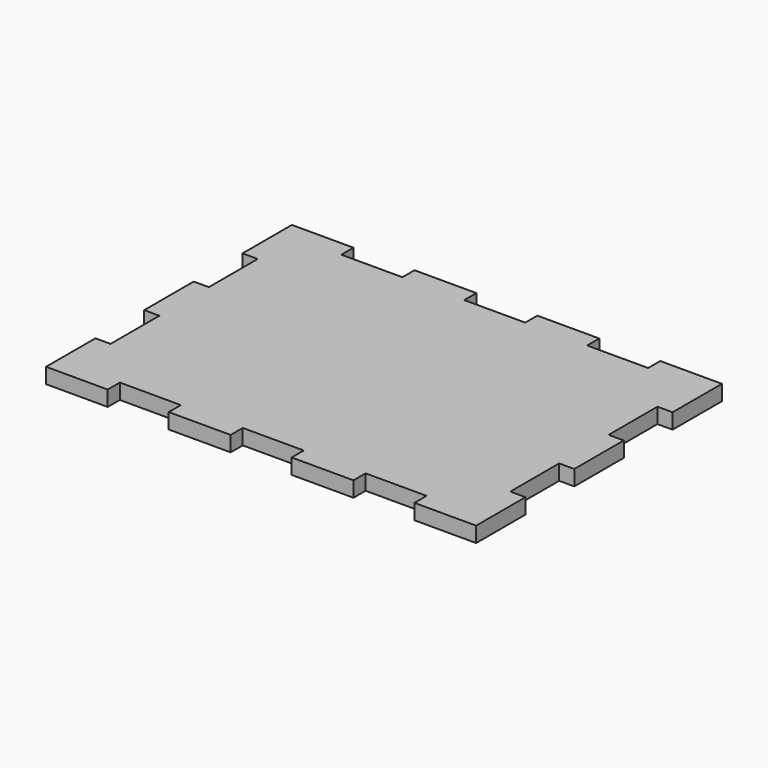
from build123d import *

# Parameters (mm, degrees)
F1_DEPTH = 6.35


with BuildPart() as f1:
    # F0 (on Top) → F1 (new body)
    with BuildSketch(Plane.XY):
        Polygon((0, 25.4889), (0, 0), (25.4889, 0), (25.4889, 6.2611), (50.7111, 6.2611), (50.7111, 0), (76.2889, 0), (76.2889, 6.2611), (101.5111, 6.2611), (101.5111, 0), (127.0889, 0), (127.0889, 6.2611), (152.3111, 6.2611), (152.3111, 0), (177.8, 0), (177.8, 25.4889), (171.5389, 25.4889), (171.5389, 50.7111), (177.8, 50.7111), (177.8, 76.2889), (171.5389, 76.2889), (171.5389, 101.5111), (177.8, 101.5111), (177.8, 127), (152.3111, 127), (152.3111, 120.7389), (127.0889, 120.7389), (127.0889, 127), (101.5111, 127), (101.5111, 120.7389), (76.2889, 120.7389), (76.2889, 127), (50.7111, 127), (50.7111, 120.7389), (25.4889, 120.7389), (25.4889, 127), (0, 127), (0, 101.5111), (6.2611, 101.5111), (6.2611, 76.2889), (0, 76.2889), (0, 50.7111), (6.2611, 50.7111), (6.2611, 25.4889), align=None)
    extrude(amount=F1_DEPTH)


solid = f1.part
